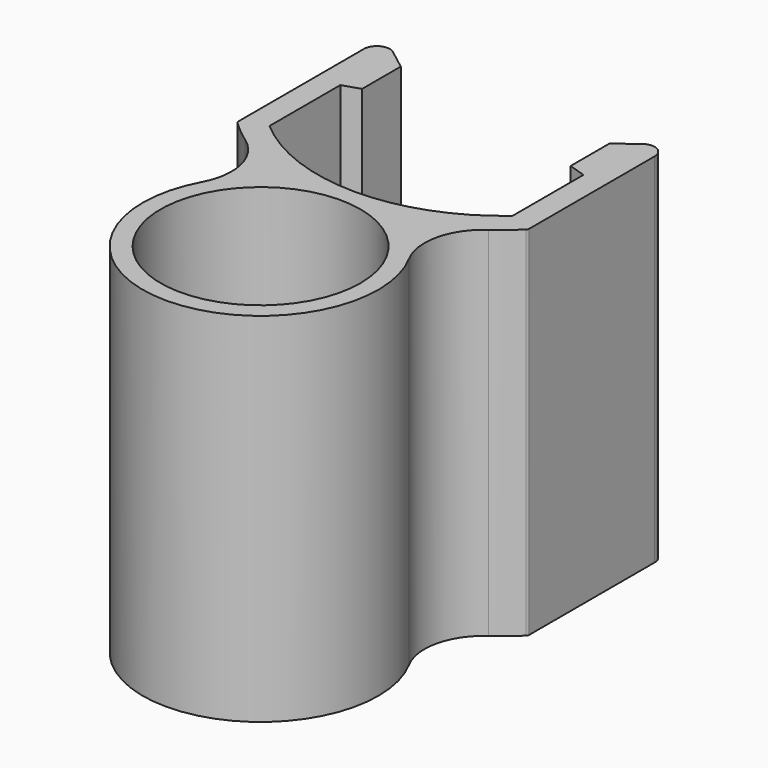
from build123d import *

# Parameters (mm, degrees)
F2_DEPTH = 38.1
F3_R     = 10.6553
F4_DEPTH = 35.56


with BuildPart() as f2:
    # F1 (on Top) → F2 (new body)
    with BuildSketch(Plane.XY):
        with BuildLine():
            Line((-11.1125, -2.921), (-11.1125, 2.232145))
            Line((-11.1125, 2.232145), (-13.265196, 3.886932))
            ThreePointArc((-13.265196, 3.886932), (-14.72113, 4.031284), (-15.494, 2.789007))
            Line((-15.494, 2.789007), (-15.494, -13.912452))
            ThreePointArc((-15.494, -13.912452), (-15.463442, -14.060988), (-15.376731, -14.185399))
            ThreePointArc((-15.376731, -14.185399), (-14.201681, -15.224533), (-12.956605, -16.178644))
            ThreePointArc((-12.956605, -16.178644), (-10.454692, -19.913141), (-11.052133, -24.368373))
            ThreePointArc((-11.052133, -24.368373), (0, -42.896211), (11.052133, -24.368373))
            ThreePointArc((11.052133, -24.368373), (10.454692, -19.913141), (12.956605, -16.178644))
            ThreePointArc((12.956605, -16.178644), (14.201681, -15.224533), (15.376731, -14.185399))
            ThreePointArc((15.376731, -14.185399), (15.463442, -14.060988), (15.494, -13.912452))
            Line((15.494, -13.912452), (15.494, 2.789007))
            ThreePointArc((15.494, 2.789007), (14.72113, 4.031284), (13.265196, 3.886932))
            Line((13.265196, 3.886932), (11.1125, 2.232145))
            Line((11.1125, 2.232145), (11.1125, -2.921))
            Line((11.1125, -2.921), (12.954, -3.518375))
            Line((12.954, -3.518375), (12.954, -12.954))
            ThreePointArc((12.954, -12.954), (6.911881, -16.534312), (0, -17.78))
            ThreePointArc((0, -17.78), (-6.911881, -16.534312), (-12.954, -12.954))
            Line((-12.954, -12.954), (-12.954, -3.518375))
            Line((-12.954, -3.518375), (-11.1125, -2.921))
        make_face()
    extrude(amount=F2_DEPTH)

    # F3 (on face) → F4 (cut)
    with BuildSketch(Plane.XY.offset(38.1)):
        with Locations((0, -30.335911)):
            Circle(F3_R)
    extrude(amount=-F4_DEPTH, mode=Mode.SUBTRACT)


solid = f2.part
